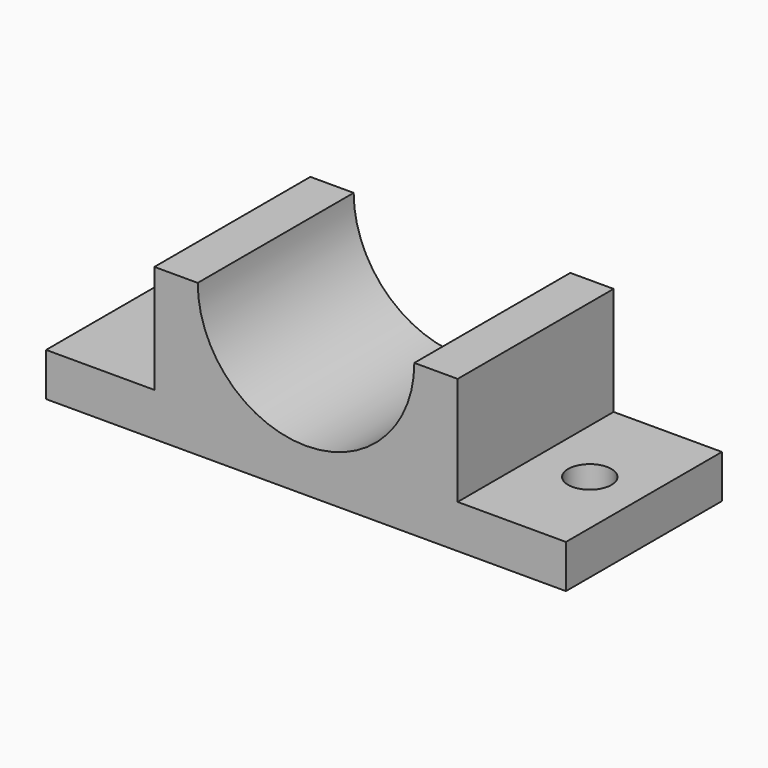
from build123d import *

# Parameters (mm, degrees)
F1_DEPTH = 22.5
F2_R     = 2.5
F3_DEPTH = 5.001
F4_DEPTH = 5.001


with BuildPart() as f1:
    # F0 (on Front) → F1 (new body)
    with BuildSketch(Plane.XZ):
        with BuildLine():
            Line((-13.277779, 5), (-13.277779, 0))
            Line((-13.277779, 0), (46.722221, 0))
            Line((46.722221, 0), (46.722221, 5))
            Line((46.722221, 5), (34.222221, 5))
            Line((34.222221, 5), (34.222221, 17.5))
            Line((34.222221, 17.5), (29.222221, 17.5))
            ThreePointArc((29.222221, 17.5), (16.722221, 5), (4.222221, 17.5))
            Line((4.222221, 17.5), (-0.777779, 17.5))
            Line((-0.777779, 17.5), (-0.777779, 5))
            Line((-0.777779, 5), (-13.277779, 5))
        make_face()
    extrude(amount=F1_DEPTH)

    # F2 (on face) → F3 (cut, through all)
    with BuildSketch(Plane.XY.offset(5)):
        with Locations((40.472221, -11.25)):
            Circle(F2_R)
    extrude(amount=-F3_DEPTH, mode=Mode.SUBTRACT)

    # F2 (on face) → F4 (cut, through all)
    with BuildSketch(Plane.XY.offset(5)):
        with Locations((-6.440863, -11.255497)):
            Circle(F2_R)
    extrude(amount=-F4_DEPTH, mode=Mode.SUBTRACT)


solid = f1.part
